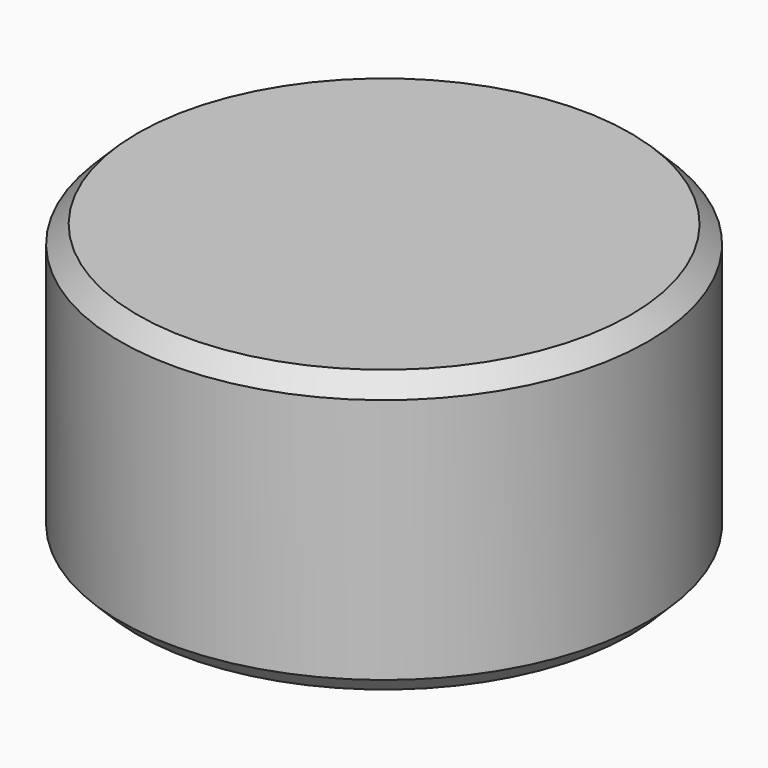
from build123d import *

# Parameters (mm, degrees)
CYLINDER014_R     = 30
CYLINDER014_DEPTH = 32
CHAMFER002_SIZE   = 2
CHAMFER003_SIZE   = 2


with BuildPart() as part:
    # Cylinder014 → Cylinder014 (join)
    with BuildSketch(Plane.XY.offset(-16)):
        Circle(CYLINDER014_R)
    extrude(amount=CYLINDER014_DEPTH)

    # Chamfer002
    chamfer002_edges = [part.edges().sort_by_distance(p)[0] for p in [
        (-30, 0, 16),
    ]]
    chamfer(chamfer002_edges, length=CHAMFER002_SIZE)

    # Chamfer003
    chamfer003_edges = [part.edges().sort_by_distance(p)[0] for p in [
        (-30, 0, -16),
    ]]
    chamfer(chamfer003_edges, length=CHAMFER003_SIZE)


solid = part.part
